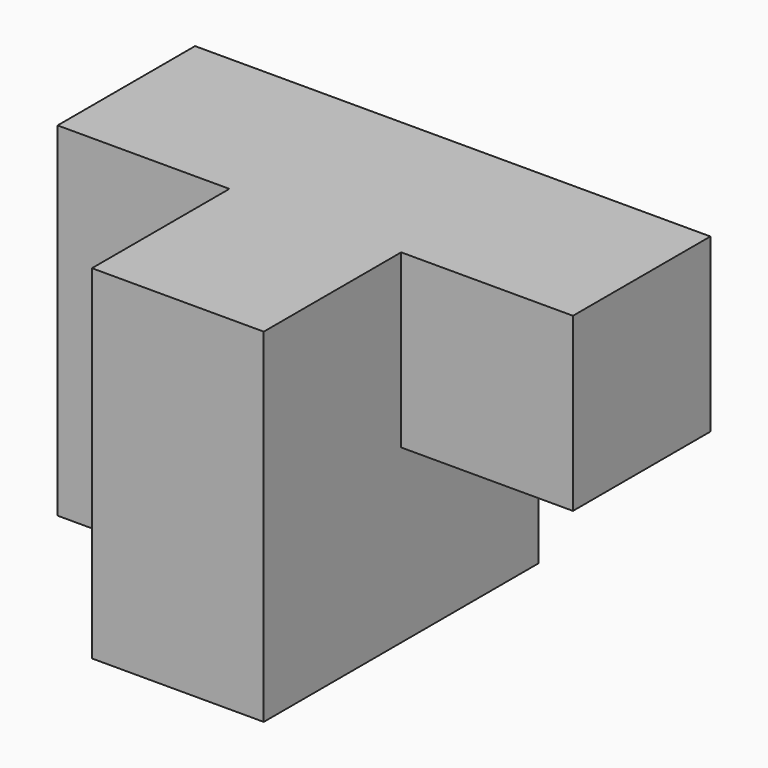
from build123d import *

# Parameters (mm, degrees)
F0_W     = 57.15
F0_H     = 19.05
F1_DEPTH = 19.05
F3_DEPTH = 19.05
F4_W     = 38.1
F4_H     = 19.05
F5_DEPTH = 19.05
F6_W     = 19.05
F6_H     = 19.05
F7_DEPTH = 19.05


with BuildPart() as f1:
    # F0 (on Front) → F1 (new body)
    with BuildSketch(Plane.XZ):
        with Locations((-68.856497, 35.426075)):
            Rectangle(F0_W, F0_H)
    extrude(amount=F1_DEPTH)

    # F2 (on face) → F3 (join)
    with BuildSketch(Plane.XZ.offset(19.05)):
        Polygon((-59.331497, 44.951075), (-78.381497, 44.951075), (-78.381497, 25.901075), (-59.331497, 25.901075), (-59.331497, 35.426075), align=None)
    extrude(amount=F3_DEPTH)

    # F4 (on face) → F5 (join)
    with BuildSketch(Plane(origin=(0, 0, 25.901075), x_dir=(1, 0, 0), z_dir=(0, 0, -1))):
        with Locations((-78.381497, 9.525)):
            Rectangle(F4_W, F4_H)
    extrude(amount=F5_DEPTH)

    # F6 (on face) → F7 (join)
    with BuildSketch(Plane(origin=(0, 0, 25.901075), x_dir=(1, 0, 0), z_dir=(0, 0, -1))):
        with Locations((-68.856497, 28.575)):
            Rectangle(F6_W, F6_H)
    extrude(amount=F7_DEPTH)


solid = f1.part
